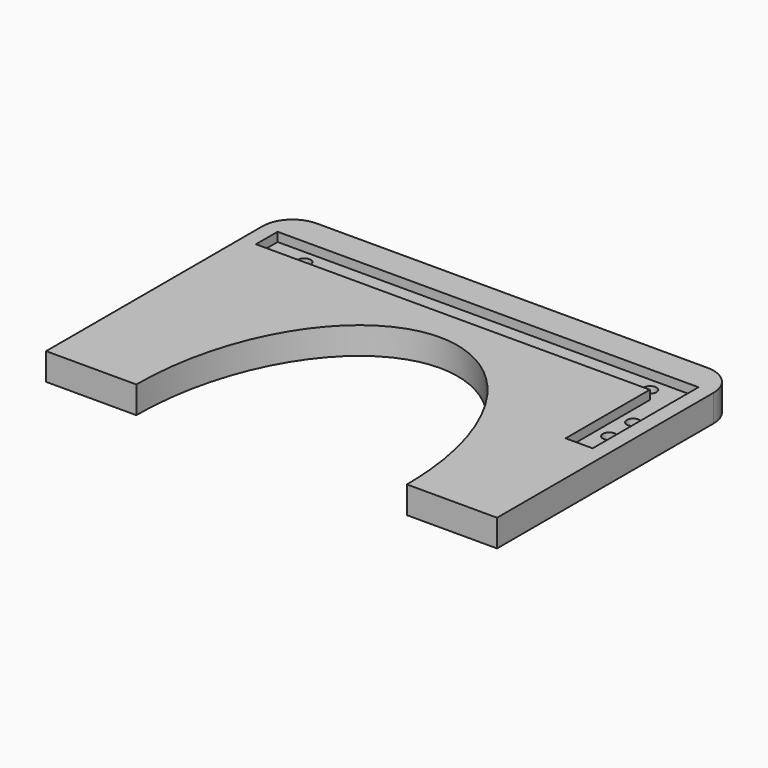
from build123d import *

# Parameters (mm, degrees)
PAD_DEPTH             = 18
POCKET_DEPTH          = 6
SKETCH002_R           = 4.25
POCKET001_DEPTH       = 0.001
POCKET001_DEPTH_BACK  = 18.001
CLONE_PITCH_ANGLE     = -90
CLONE_PLACEMENT_ANGLE = -90


with BuildPart() as body:
    # Sketch → Pad (new body)
    with BuildSketch(Plane.YZ):
        with BuildLine():
            ThreePointArc((20, 200), (5.857864, 194.142136), (0, 180))
            Line((0, 180), (0, 0))
            Line((0, 0), (60, 0))
            add(Edge.make_bspline(
                [(240, 0), (240, 140), (150, 140), (60, 140), (60, 0)],
                knots=[1.570796, 1.570796, 1.570796, 3.141593, 3.141593, 4.712389, 4.712389, 4.712389], degree=2, weights=[1, 0.707107, 1, 0.707107, 1]))
            Line((240, 0), (300, 0))
            Line((300, 0), (300, 180))
            ThreePointArc((300, 180), (294.142136, 194.142136), (280, 200))
            Line((280, 200), (225, 200))
            Line((225, 200), (75, 200))
            Line((75, 200), (20, 200))
        make_face()
    extrude(amount=PAD_DEPTH)

    # Sketch001 → Pocket (cut)
    with BuildSketch(Plane.YZ.offset(18)):
        Polygon((28, 92), (28, 162), (290, 162), (290, 180), (10, 180), (10, 92), align=None)
    extrude(amount=-POCKET_DEPTH, mode=Mode.SUBTRACT)

    # Sketch002 → Pocket001 (cut, two sides)
    with BuildSketch(Plane.YZ) as pocket001_sk:
        with Locations((19, 137)):
            Circle(SKETCH002_R)
        with Locations((19, 117)):
            Circle(SKETCH002_R)
        with Locations((35, 171)):
            Circle(SKETCH002_R)
        with Locations((265, 171)):
            Circle(SKETCH002_R)
    extrude(amount=-POCKET001_DEPTH, mode=Mode.SUBTRACT)
    extrude(pocket001_sk.sketch, amount=POCKET001_DEPTH_BACK, mode=Mode.SUBTRACT)


with BuildPart() as clone:
    # Part__Mirroring: instance of Body
    add(body.part.mirror(Plane(origin=(0, 0, 0), x_dir=(1, 0, 0), z_dir=(0, 1, 0))))


with BuildPart() as clone_1:
    # Clone pitch: moved
    add(clone.part.rotate(Axis((0, 0, 0), (0, 1, 0)), CLONE_PITCH_ANGLE))


with BuildPart() as clone_2:
    # Clone placement: moved
    add(clone_1.part.moved(Location((-205, 56.8, 0))).rotate(Axis((-205, 56.8, 0), (0, 0, 1)), CLONE_PLACEMENT_ANGLE))


solid = clone_2.part
